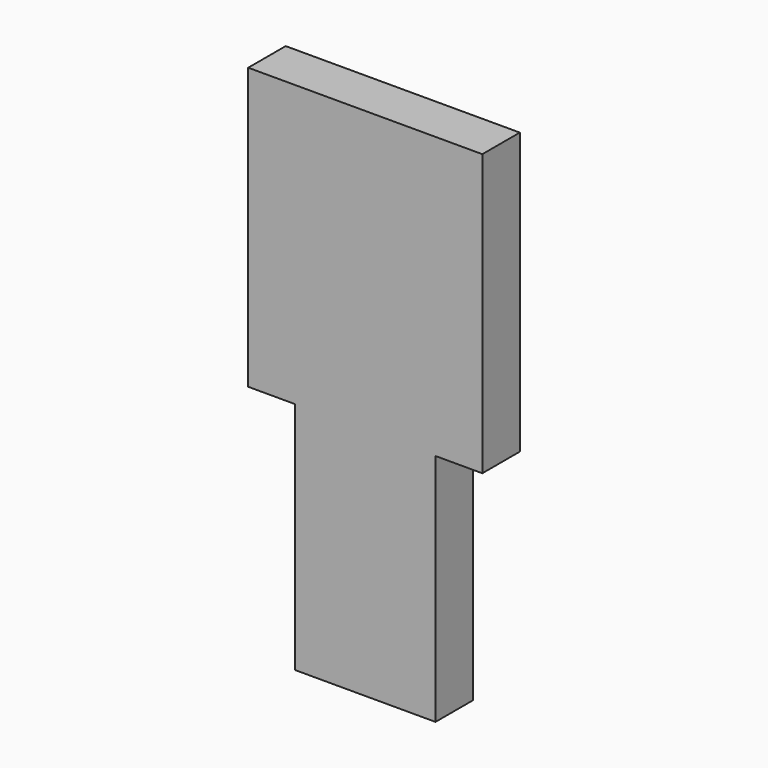
from build123d import *

# Parameters (mm, degrees)
F0_W     = 25.4
F0_H     = 152.4
F0_W_2   = 76.2
F0_H_2   = 127
F1_DEPTH = 25.4


with BuildPart() as f1:
    # F0 (on Front) → F1 (new body)
    with BuildSketch(Plane.XZ):
        with Locations((27.28083, 58.409759)):
            Rectangle(F0_W, F0_H)
        with Locations((78.08083, 58.409759)):
            Rectangle(F0_W_2, F0_H)
        with Locations((78.08083, -81.290241)):
            Rectangle(F0_W_2, F0_H_2)
        with Locations((128.88083, 58.409759)):
            Rectangle(F0_W, F0_H)
    extrude(amount=F1_DEPTH)


solid = f1.part
